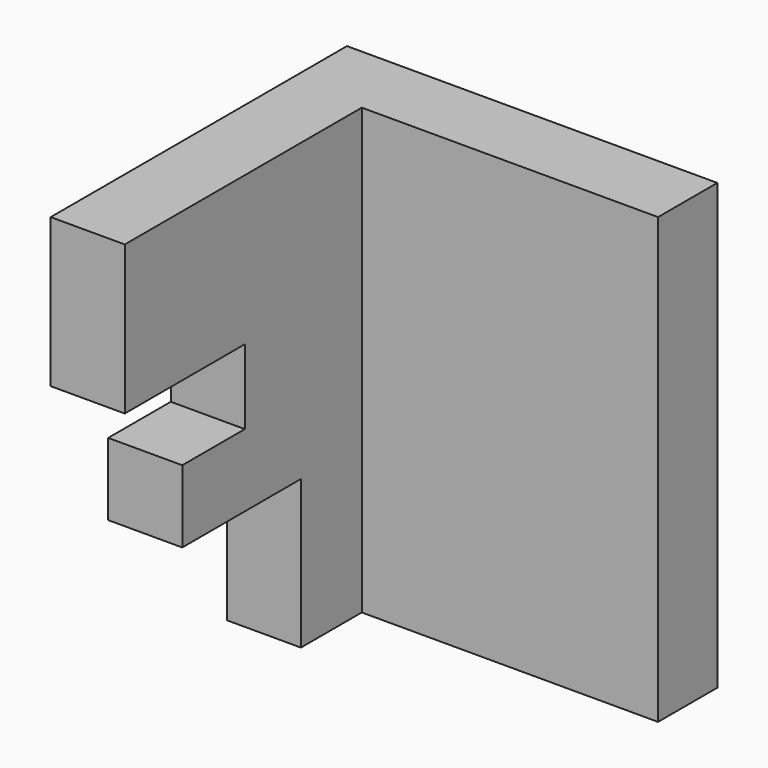
from build123d import *

# Parameters (mm, degrees)
F1_DEPTH = 76.2
F3_DEPTH = 25.4


with BuildPart() as f1:
    # F0 (on Top) → F1 (new body)
    with BuildSketch(Plane.XY):
        Polygon((-43.844193, 31.119447), (-43.844193, -32.380553), (-31.144193, -32.380553), (-31.144193, 18.419447), (19.655807, 18.419447), (19.655807, 31.119447), align=None)
    extrude(amount=F1_DEPTH)

    # F2 (on face) → F3 (cut)
    with BuildSketch(Plane.YZ.offset(-31.144193)):
        Polygon((-32.380553, 50.677463), (-32.380553, 0), (5.369338, 0), (5.369338, 25.450481), (-20.057857, 25.450481), (-20.057857, 37.863757), (-6.64351, 37.863757), (-6.64351, 50.677463), align=None)
    extrude(amount=-F3_DEPTH, mode=Mode.SUBTRACT)


solid = f1.part
